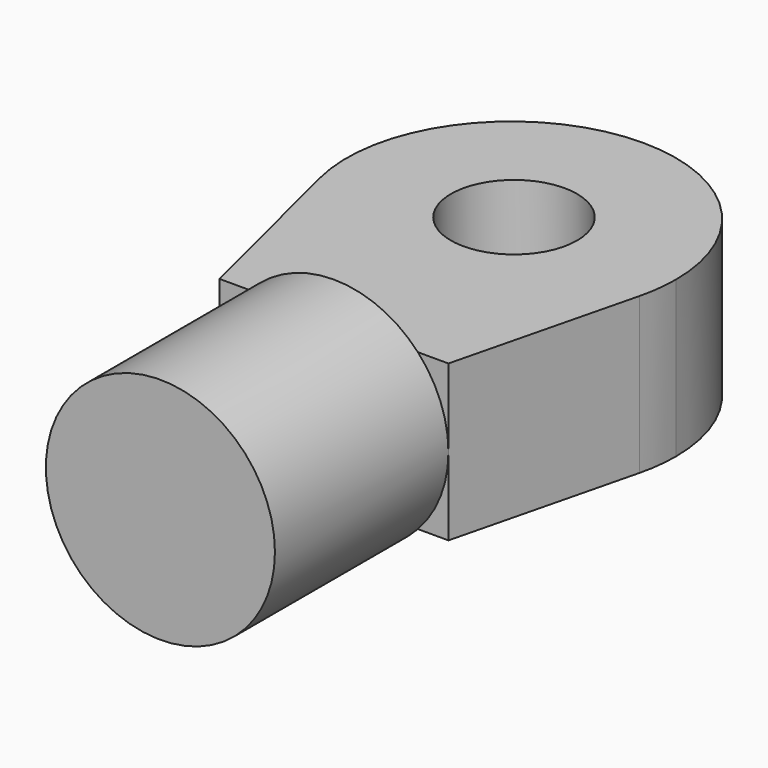
from build123d import *

# Parameters (mm, degrees)
F0_R     = 12.7
F1_DEPTH = 38.862
F2_R     = 12.7
F2_R_2   = 7.3787
F3_DEPTH = 13.97
F5_DEPTH = 24.892
F6_W     = 1.03275
F6_H     = 24.892
F6_R     = 4.064
F7_DEPTH = 25.4


with BuildPart() as f1:
    # F0 (on Front) → F1 (new body)
    with BuildSketch(Plane.XZ):
        Circle(F0_R)
    extrude(amount=F1_DEPTH)

    # F2 (on face) → F3 (cut)
    with BuildSketch(Plane.XZ.offset(38.862)):
        Circle(F2_R)
        Circle(F2_R_2, mode=Mode.SUBTRACT)
    extrude(amount=-F3_DEPTH, mode=Mode.SUBTRACT)

    # F4 (on face) → F5 (cut)
    with BuildSketch(Plane(origin=(0, 0, 0), x_dir=(-1, 0, 0), z_dir=(0, 1, 0))):
        with BuildLine():
            ThreePointArc((11.66725, 5.0165), (0, 12.7), (-11.66725, 5.0165))
            Line((-11.66725, 5.0165), (11.66725, 5.0165))
        make_face()
        with BuildLine():
            Line((11.66725, -5.0165), (-11.66725, -5.0165))
            ThreePointArc((-11.66725, -5.0165), (0, -12.7), (11.66725, -5.0165))
        make_face()
    extrude(amount=-F5_DEPTH, mode=Mode.SUBTRACT)

    # F6 (on face) → F7 (cut)
    with BuildSketch(Plane.XY.offset(5.0165)):
        with BuildLine():
            Line((-11.66725, 0), (-11.66725, -24.892))
            Line((-11.66725, -24.892), (-7.3787, -24.892))
            Line((-7.3787, -24.892), (-10.291934, -13.160184))
            ThreePointArc((-10.291934, -13.160184), (-8.353358, -4.071749), (0, 0))
            Line((0, 0), (-11.66725, 0))
        make_face()
        with Locations((-12.183625, -12.446)):
            Rectangle(F6_W, F6_H)
        with BuildLine():
            Line((11.66725, 0), (0, 0))
            ThreePointArc((0, 0), (7.498514, -3.105986), (10.6045, -10.6045))
            ThreePointArc((10.6045, -10.6045), (10.526068, -11.891863), (10.291934, -13.160184))
            Line((10.291934, -13.160184), (7.3787, -24.892))
            Line((7.3787, -24.892), (11.66725, -24.892))
            Line((11.66725, -24.892), (11.66725, 0))
        make_face()
        with Locations((12.183625, -12.446)):
            Rectangle(F6_W, F6_H)
        with Locations((0, -10.3886)):
            Circle(F6_R)
    extrude(amount=-F7_DEPTH, mode=Mode.SUBTRACT)


solid = f1.part
